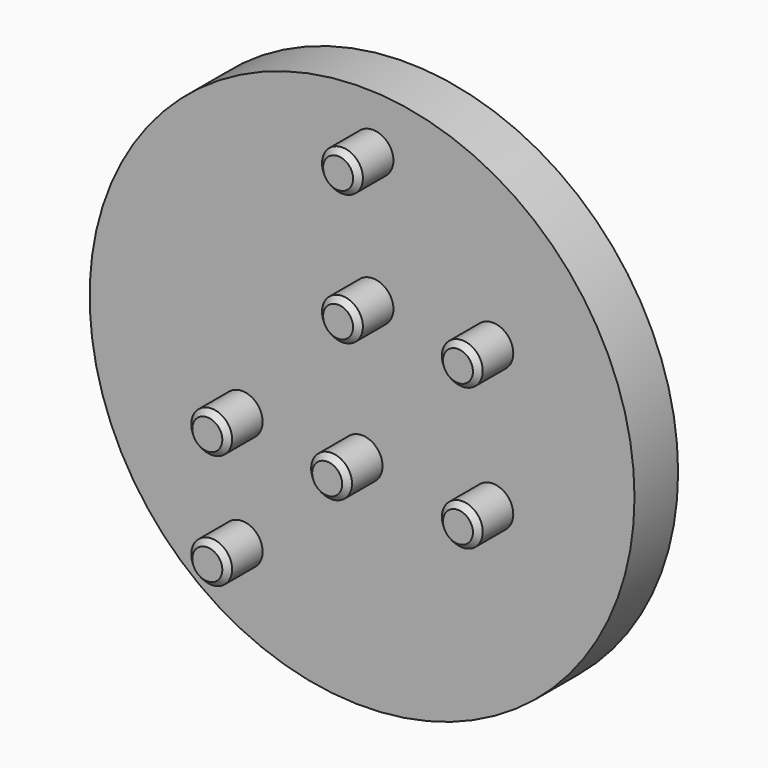
from build123d import *

# Parameters (mm, degrees)
F0_R     = 50
F1_DEPTH = 10
F2_R     = 3.75
F3_DEPTH = 8
F4_SIZE  = 1


with BuildPart() as f1:
    # F0 (on Front) → F1 (new body)
    with BuildSketch(Plane.XZ):
        Circle(F0_R)
    extrude(amount=F1_DEPTH)

    # F2 (on face) → F3 (join)
    with BuildSketch(Plane.XZ.offset(10)):
        with Locations((2, 40)):
            Circle(F2_R)
        with Locations((2, 16)):
            Circle(F2_R)
        with Locations((24, 16)):
            Circle(F2_R)
        with Locations((24, -10)):
            Circle(F2_R)
        with Locations((0, -10)):
            Circle(F2_R)
        with Locations((-22, -10)):
            Circle(F2_R)
        with Locations((-22, -31)):
            Circle(F2_R)
    extrude(amount=F3_DEPTH)

    # F4
    f4_edges = [f1.edges().sort_by_distance(p)[0] for p in [
        (-1.75, -18, 40),
        (-1.75, -18, 16),
        (20.25, -18, 16),
        (20.25, -18, -10),
        (-3.75, -18, -10),
        (-25.75, -18, -10),
        (-25.75, -18, -31),
    ]]
    chamfer(f4_edges, length=F4_SIZE)


solid = f1.part
